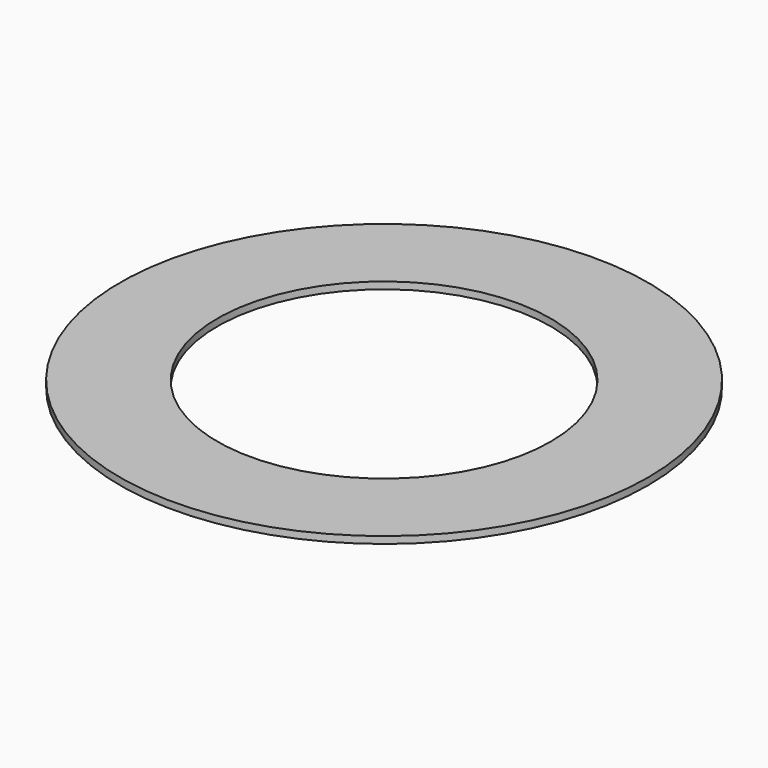
from build123d import *

# Parameters (mm, degrees)
F0_R     = 9.5
F1_DEPTH = 0.25


with BuildPart() as f1:
    # F0 (on Top) → F1 (new body)
    with BuildSketch(Plane.XY):
        with Locations((-5.931818, 0.979374)):
            Circle(F0_R)
        with BuildLine():
            ThreePointArc((-0.41993, -1.391087), (-11.808524, 2.189471), (0.068182, 0.979374))
            Line((0.068182, 0.979374), (0.068182, -1.391087))
            Line((0.068182, -1.391087), (-0.41993, -1.391087))
        make_face(mode=Mode.SUBTRACT)
        with BuildLine():
            Line((0.068182, -1.391087), (0.068182, 0.979374))
            ThreePointArc((0.068182, 0.979374), (-0.055113, -0.230723), (-0.41993, -1.391087))
            Line((-0.41993, -1.391087), (0.068182, -1.391087))
        make_face()
    extrude(amount=F1_DEPTH)


solid = f1.part
